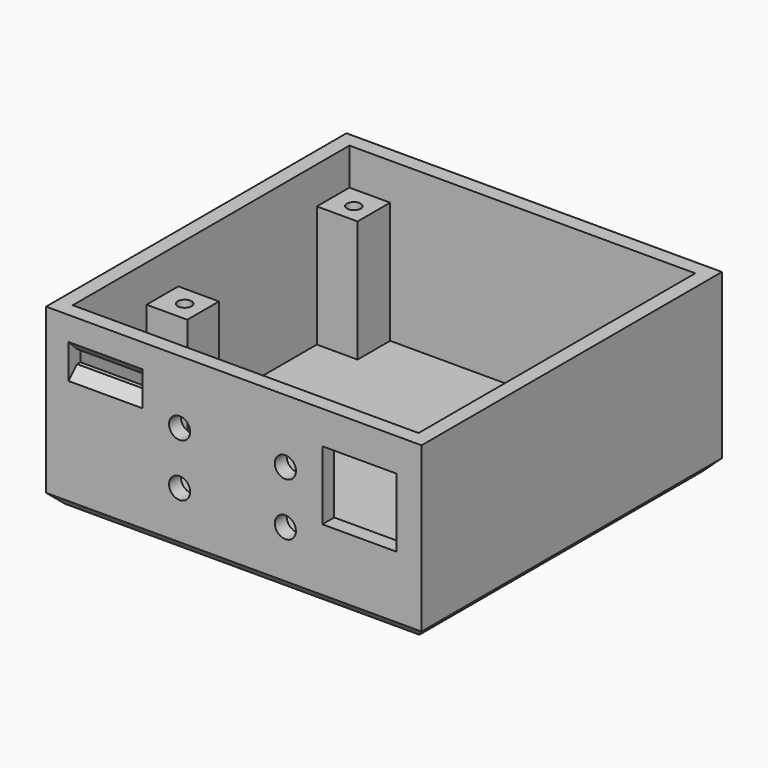
from build123d import *

# Parameters (mm, degrees)
SKETCH003_W        = 71
SKETCH003_H        = 71
PAD001_DEPTH       = 3
SKETCH004_W        = 71
SKETCH004_H        = 71
SKETCH004_W_2      = 65
SKETCH004_H_2      = 65
PAD002_DEPTH       = 30
SKETCH005_W        = 7.5
SKETCH005_H        = 7.5
PAD003_DEPTH       = 23
SKETCH006_R        = 1.3
POCKET002_DEPTH    = 16
POCKET003_DEPTH    = 0.2
POCKET004_DEPTH    = 0.2
POCKET005_DEPTH    = 0.2
POCKET005_FACE10_W = 65.4
POCKET005_FACE10_H = 30
POCKET006_DEPTH    = 0.2
SKETCH009_W        = 14
SKETCH009_H        = 2.5
SKETCH009_H_2      = 13
POCKET012_DEPTH    = 5
CHAMFER001_SIZE    = 2
SKETCH010_R        = 6.25
POCKET013_DEPTH    = 5
SKETCH011_W        = 5
SKETCH011_H        = 10
SKETCH011_H_2      = 6
POCKET014_DEPTH    = 5
CHAMFER003_SIZE    = 2
SKETCH012_R        = 2
POCKET015_DEPTH    = 5


with BuildPart() as part:
    # Sketch003 → Pad001 (new body)
    with BuildSketch(Plane.XY):
        Rectangle(SKETCH003_W, SKETCH003_H)
    extrude(amount=PAD001_DEPTH)

    # Sketch004 (on Face6 of Pad001) → Pad002 (join)
    with BuildSketch(Plane.XY.offset(3)):
        Rectangle(SKETCH004_W, SKETCH004_H)
        Rectangle(SKETCH004_W_2, SKETCH004_H_2, mode=Mode.SUBTRACT)
    extrude(amount=PAD002_DEPTH)

    # Sketch005 (on Face15 of Pad002) → Pad003 (join)
    with BuildSketch(Plane.XY.offset(3)):
        with Locations((-28.75, 28.75)):
            Rectangle(SKETCH005_W, SKETCH005_H)
        with Locations((28.75, 28.75)):
            Rectangle(SKETCH005_W, SKETCH005_H)
        with Locations((28.75, -11.5)):
            Rectangle(SKETCH005_W, SKETCH005_H)
        with Locations((-28.75, -11.5)):
            Rectangle(SKETCH005_W, SKETCH005_H)
    extrude(amount=PAD003_DEPTH)

    # Sketch006 (on Face20 of Pad003) → Pocket002 (cut)
    with BuildSketch(Plane.XY.offset(26)):
        with Locations((-28.5, 28.5)):
            Circle(SKETCH006_R)
        with Locations((28.5, 28.5)):
            Circle(SKETCH006_R)
        with Locations((28.5, -11.5)):
            Circle(SKETCH006_R)
        with Locations((-28.5, -11.5)):
            Circle(SKETCH006_R)
    extrude(amount=-POCKET002_DEPTH, mode=Mode.SUBTRACT)

    # Pocket002 Face11 → Pocket003 (cut)
    with BuildSketch(Plane(origin=(-32.5, -1.853972, 18.752336), x_dir=(0, -1, 0), z_dir=(1, 0, 0))):
        Polygon((30.646028, 15.752336), (13.396028, 15.752336), (13.396028, -7.247664), (5.896028, -7.247664), (5.896028, 15.752336), (-26.853972, 15.752336), (-26.853972, -7.247664), (-34.353972, -7.247664), (-34.353972, -14.247664), (30.646028, -14.247664), align=None)
    extrude(amount=-POCKET003_DEPTH, mode=Mode.SUBTRACT)

    # Pocket003 Face15 → Pocket004 (cut)
    with BuildSketch(Plane(origin=(32.5, -1.853972, 18.752336), x_dir=(0, 1, 0), z_dir=(-1, 0, 0))):
        Polygon((34.353972, -7.247664), (26.853972, -7.247664), (26.853972, 15.752336), (-5.896028, 15.752336), (-5.896028, -7.247664), (-13.396028, -7.247664), (-13.396028, 15.752336), (-30.646028, 15.752336), (-30.646028, -14.247664), (34.353972, -14.247664), align=None)
    extrude(amount=-POCKET004_DEPTH, mode=Mode.SUBTRACT)

    # Pocket004 Face2 → Pocket005 (cut)
    with BuildSketch(Plane(origin=(0, 32.5, 18.771054), x_dir=(-1, 0, 0), z_dir=(0, -1, 0))):
        Polygon((32.7, -7.228946), (25, -7.228946), (25, 15.771054), (-25, 15.771054), (-25, -7.228946), (-32.7, -7.228946), (-32.7, -14.228946), (32.7, -14.228946), align=None)
    extrude(amount=-POCKET005_DEPTH, mode=Mode.SUBTRACT)

    # Pocket005 Face10 → Pocket006 (cut)
    with BuildSketch(Plane(origin=(0, -32.5, 18), x_dir=(1, 0, 0), z_dir=(0, 1, 0))):
        Rectangle(POCKET005_FACE10_W, POCKET005_FACE10_H)
    extrude(amount=-POCKET006_DEPTH, mode=Mode.SUBTRACT)

    # Sketch009 (on Face17 of Pocket006) → Pocket012 (cut)
    with BuildSketch(Plane.XZ.offset(35.5)):
        with Locations((-24.25, 25.25)):
            Rectangle(SKETCH009_W, SKETCH009_H)
        with Locations((23.75, 20.25)):
            Rectangle(SKETCH009_W, SKETCH009_H_2)
    extrude(amount=-POCKET012_DEPTH, mode=Mode.SUBTRACT)

    # Chamfer001
    chamfer001_edges = [part.edges().sort_by_distance(p)[0] for p in [
        (-24.25, -35.5, 24),
        (-24.25, -35.5, 26.5),
    ]]
    chamfer(chamfer001_edges, length=CHAMFER001_SIZE)

    # Sketch010 (on Face33 of Chamfer001) → Pocket013 (cut)
    with BuildSketch(Plane(origin=(0, 35.5, 0), x_dir=(-1, 0, 0), z_dir=(0, 1, 0))):
        with Locations((-18.6, 11.5)):
            Circle(SKETCH010_R)
    extrude(amount=-POCKET013_DEPTH, mode=Mode.SUBTRACT)

    # Sketch011 (on Face18 of Pocket013) → Pocket014 (cut)
    with BuildSketch(Plane(origin=(0, 0, 0), x_dir=(1, 0, 0), z_dir=(0, 0, -1))):
        with Locations((28.75, -19.25)):
            Rectangle(SKETCH011_W, SKETCH011_H)
        with Locations((28.75, -5.25)):
            Rectangle(SKETCH011_W, SKETCH011_H_2)
    extrude(amount=-POCKET014_DEPTH, mode=Mode.SUBTRACT)

    # Chamfer003
    chamfer003_edges = [part.edges().sort_by_distance(p)[0] for p in [
        (0, 35.5, 0),
        (35.5, 0, 0),
        (0, -35.5, 0),
        (-35.5, 0, 0),
    ]]
    chamfer(chamfer003_edges, length=CHAMFER003_SIZE)

    # Sketch012 (on Face1 of Chamfer003) → Pocket015 (cut)
    with BuildSketch(Plane.XZ.offset(35.5)):
        with Locations((-10.25, 21)):
            Circle(SKETCH012_R)
        with Locations((9.75, 21)):
            Circle(SKETCH012_R)
        with Locations((-10.25, 11)):
            Circle(SKETCH012_R)
        with Locations((9.75, 11)):
            Circle(SKETCH012_R)
    extrude(amount=-POCKET015_DEPTH, mode=Mode.SUBTRACT)


with BuildPart() as part_1:
    # Body001 placement: moved
    add(part.part.moved(Location((0, 0, -25.94))))


solid = part_1.part
